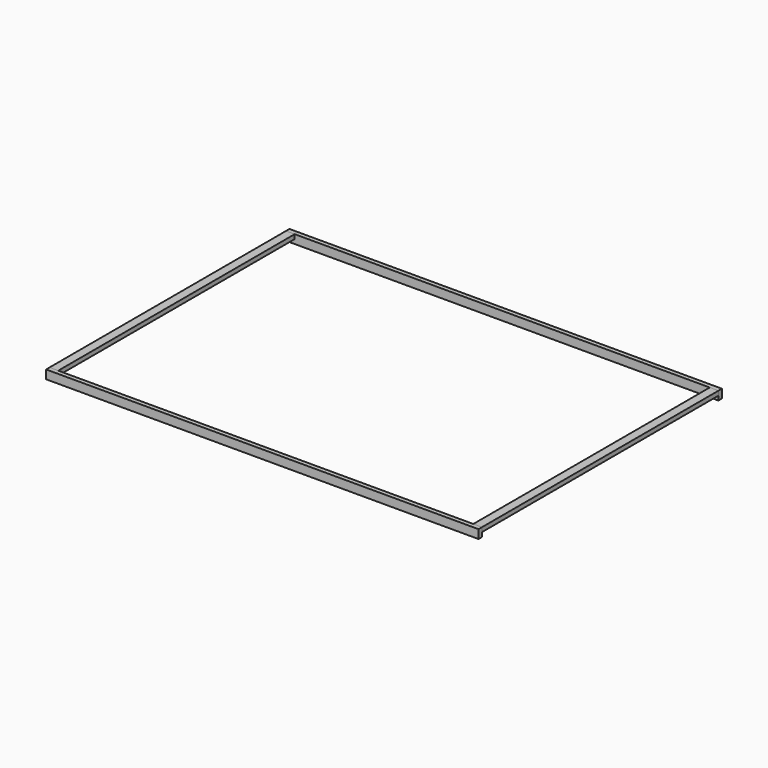
from build123d import *

# Parameters (mm, degrees)
F1_DEPTH = 40
F0_W     = 40
F0_H     = 1360
F2_DEPTH = 20


with BuildPart() as f1:
    # F0 (on Top) → F1 (new body)
    with BuildSketch(Plane.XY):
        Polygon((995, 680), (995, 700), (-995, 700), (-995, 680), (-955, 680), (955, 680), align=None)
        Polygon((995, -700), (995, -680), (955, -680), (-955, -680), (-995, -680), (-995, -700), align=None)
    extrude(amount=-F1_DEPTH)


with BuildPart() as f2:
    # F0 (on Top) → F2 (new body)
    with BuildSketch(Plane.XY):
        with Locations((975, 0)):
            Rectangle(F0_W, F0_H)
        with Locations((-975, 0)):
            Rectangle(F0_W, F0_H)
    extrude(amount=-F2_DEPTH)


solid = Compound([f1.part, f2.part])
